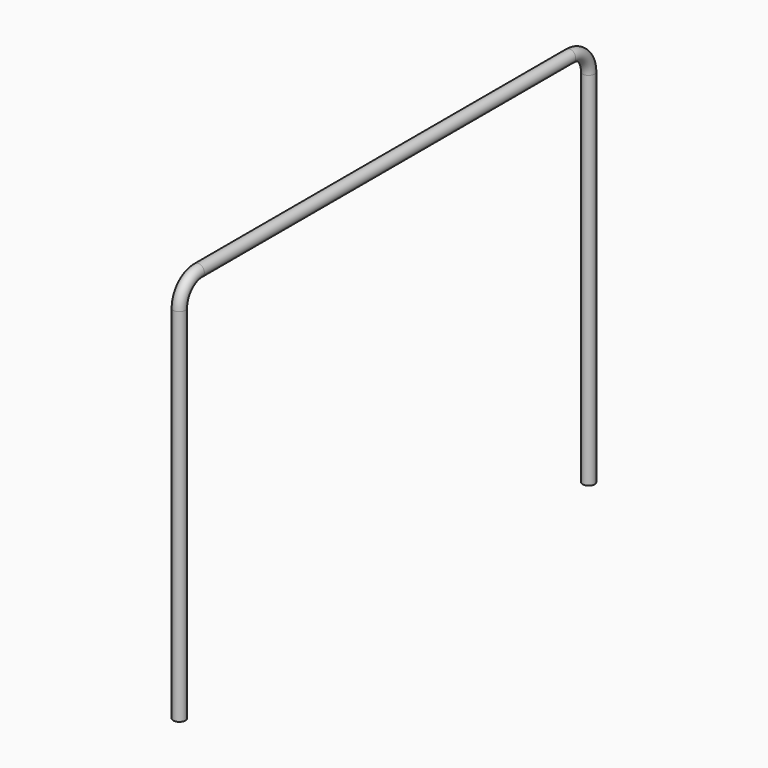
from build123d import *

# Parameters (mm, degrees)
F1_R = 20


with BuildPart() as f2:
    # F2: sweep along a path in F0
    with BuildLine(Plane.YZ) as f2_path:
        Line((-861.675808, 0), (-861.675808, 1200))
        ThreePointArc((-861.675808, 1200), (-838.633075, 1255.630079), (-783.002996, 1278.672813))
        Line((-783.002996, 1278.672813), (759.651379, 1278.672813))
        ThreePointArc((759.651379, 1278.672813), (815.281458, 1255.630079), (838.324192, 1200))
        Line((838.324192, 1200), (838.324192, 0))
    # F1 (on Top) → F2 (sweep)
    with BuildSketch(Plane.XY):
        with Locations((0, -861.675808)):
            Circle(F1_R)
    sweep(path=f2_path.line)


solid = f2.part
